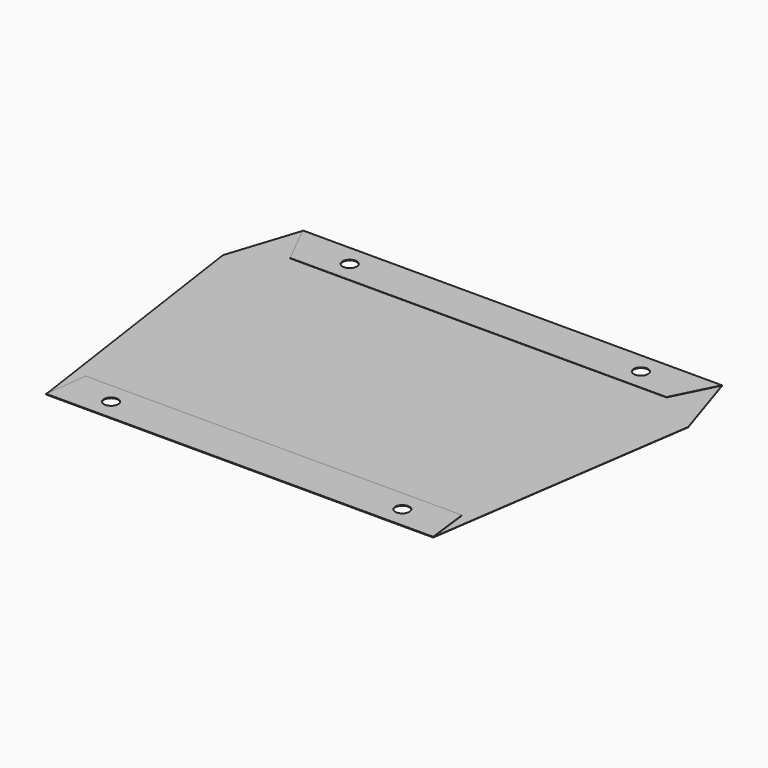
from build123d import *

# Parameters (mm, degrees)
F1_DEPTH = 0.5
F3_DEPTH = 0.5
F4_R     = 10
F5_DEPTH = 1.001


with BuildPart() as f1:
    # F0 (on Top) → F1 (new body)
    with BuildSketch(Plane.XY):
        Polygon((0, 0), (-590, 0), (-622.5, -100), (-567.5, -480), (-22.5, -480), (32.5, -100), align=None)
    extrude(amount=F1_DEPTH)

    # F2 (on face) → F3 (join)
    with BuildSketch(Plane.XY.offset(0.5)):
        Polygon((0, 0), (-590, 0), (-560, -60), (-30, -60), align=None)
        Polygon((-567.5, -480), (-22.5, -480), (-30, -420), (-560, -420), align=None)
    extrude(amount=F3_DEPTH)

    # F4 (on face) → F5 (cut, through all)
    with BuildSketch(Plane.XY.offset(1)):
        with Locations((-500, -30)):
            Circle(F4_R)
        with Locations((-500, -450)):
            Circle(F4_R)
        with Locations((-90, -30)):
            Circle(F4_R)
        with Locations((-90, -450)):
            Circle(F4_R)
    extrude(amount=-F5_DEPTH, mode=Mode.SUBTRACT)


solid = f1.part
